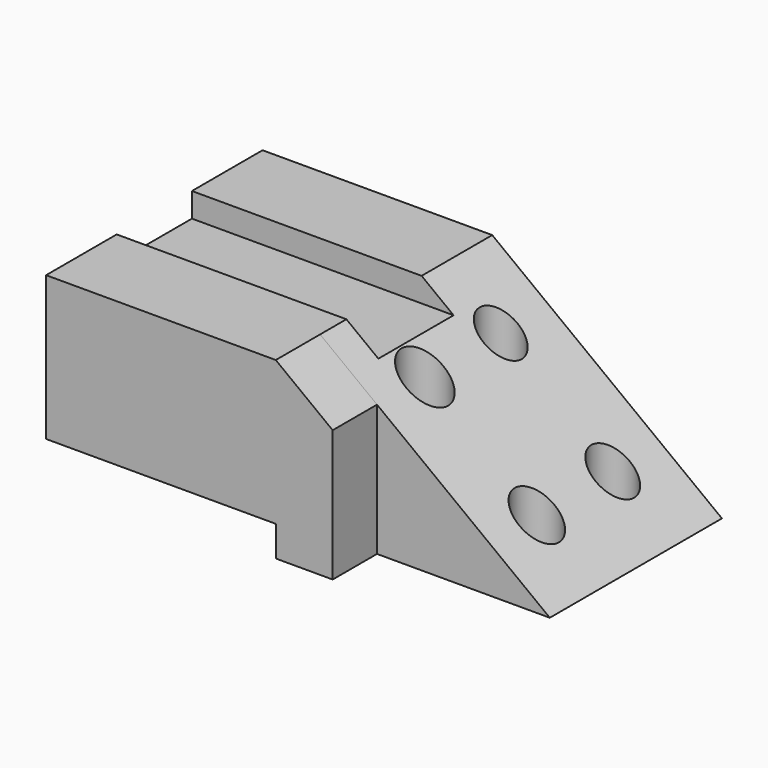
from build123d import *

# Parameters (mm, degrees)
F1_DEPTH = 67.056
F2_W     = 71.5878978372
F2_H     = 5.1953196526
F3_DEPTH = 186.436
F4_DEPTH = 17.272
F5_DEPTH = 4.318
F6_W     = 29.3028312416
F6_H     = 7.5802523643
F7_DEPTH = 176.784
F8_R     = 7.2573235492
F8_R_2   = 6.8780266073
F8_R_3   = 6.6715099214
F8_R_4   = 6.5534755611
F9_DEPTH = 94.742


with BuildPart() as f1:
    # F0 (on Front) → F1 (new body)
    with BuildSketch(Plane.XZ):
        Polygon((71.5878978372, -27.2314734757), (0, 27.2314734757), (-71.5878978372, 27.2314734757), (-71.5878978372, -27.2314734757), align=None)
    extrude(amount=F1_DEPTH)

    # F2 (on face) → F3 (cut)
    with BuildSketch(Plane.XZ.offset(67.056)):
        with Locations((-35.7939489186, -24.6338136494)):
            Rectangle(F2_W, F2_H)
    extrude(amount=-F3_DEPTH, mode=Mode.SUBTRACT)

    # F2 (on face) → F4 (join)
    with BuildSketch(Plane.XZ.offset(67.056)):
        Polygon((17.7344851975, -27.2314734757), (17.7344851975, 13.739356013), (0, 27.2314734757), (-71.5878978372, 27.2314734757), (-71.5878978372, -22.0361538231), (0, -22.0361538231), (0, -27.2314734757), align=None)
    extrude(amount=F4_DEPTH)

    # F5 (cut): a face of the model
    f5_faces = [f1.faces().sort_by_distance(p)[0] for p in [
        (-35.7939489186, -42.164, -22.0361538231),
    ]]
    extrude(f5_faces, amount=-F5_DEPTH, mode=Mode.SUBTRACT)

    # F6 (on face) → F7 (cut)
    with BuildSketch(Plane(origin=(-71.5878978372, 0, 0), x_dir=(0, -1, 0), z_dir=(-1, 0, 0))):
        with Locations((42.164, 23.4413472936)):
            Rectangle(F6_W, F6_H)
    extrude(amount=-F7_DEPTH, mode=Mode.SUBTRACT)

    # F8 (on face) → F9 (cut)
    with BuildSketch(Plane(origin=(0, 0, -27.2314734757), x_dir=(1, 0, 0), z_dir=(0, 0, -1))):
        with Locations((17.7344851975, 48.4204255044)):
            Circle(F8_R)
        with Locations((52.6362881064, 48.4204255044)):
            Circle(F8_R_2)
        with Locations((52.6362881064, 18.8494753093)):
            Circle(F8_R_3)
        with Locations((17.7344851975, 18.8494753093)):
            Circle(F8_R_4)
    extrude(amount=-F9_DEPTH, mode=Mode.SUBTRACT)


solid = f1.part
